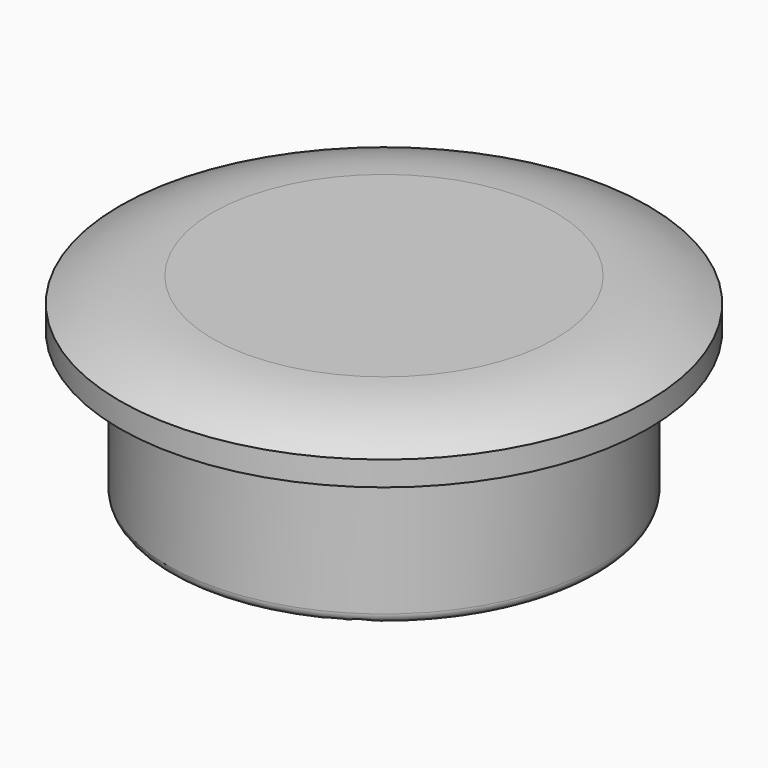
from build123d import *

# Parameters (mm, degrees)
BOX_W        = 1
BOX_H        = 6
BOX_DEPTH    = 6
SKETCH001_R  = 3.5
POCKET_DEPTH = 3
FILLET_R     = 0.2
FILLET001_R  = 0.2


with BuildPart() as cube:
    # Box → Box (new body)
    with BuildSketch(Plane(origin=(-0.5, 0, -3), x_dir=(1, 0, 0), z_dir=(0, 0, 1))):
        with Locations((0.5, 3)):
            Rectangle(BOX_W, BOX_H)
    extrude(amount=BOX_DEPTH)


with BuildPart() as cut:
    # Sketch → Revolution (revolve)
    with BuildSketch(Plane.XZ):
        with BuildLine():
            Line((5.4, 3.5), (5.4, 3))
            Line((5.4, 3), (4.4, 3))
            Line((4.4, 3), (4.4, 0))
            Line((4.4, 0), (0, 0))
            Line((0, 0), (0, 4))
            Line((0, 4), (3.5, 4))
            ThreePointArc((5.4, 3.5), (4.482344, 3.872908), (3.5, 4))
        make_face()
    revolve(axis=Axis((0, 0, 0), (0, 0, 1)))

    # Sketch001 (on Face4 of Revolution) → Pocket (cut)
    with BuildSketch(Plane(origin=(0, 0, 0), x_dir=(1, 0, 0), z_dir=(0, 0, -1))):
        Circle(SKETCH001_R)
    extrude(amount=-POCKET_DEPTH, mode=Mode.SUBTRACT)

    # Fillet
    fillet_edges = [cut.edges().sort_by_distance(p)[0] for p in [
        (-4.4, 0, 0),
    ]]
    fillet(fillet_edges, radius=FILLET_R)

    # Fillet001
    fillet001_edges = [cut.edges().sort_by_distance(p)[0] for p in [
        (-3.5, 0, 0),
    ]]
    fillet(fillet001_edges, radius=FILLET001_R)

    # Cut: cut Cube
    add(cube.part, mode=Mode.SUBTRACT)


solid = cut.part
